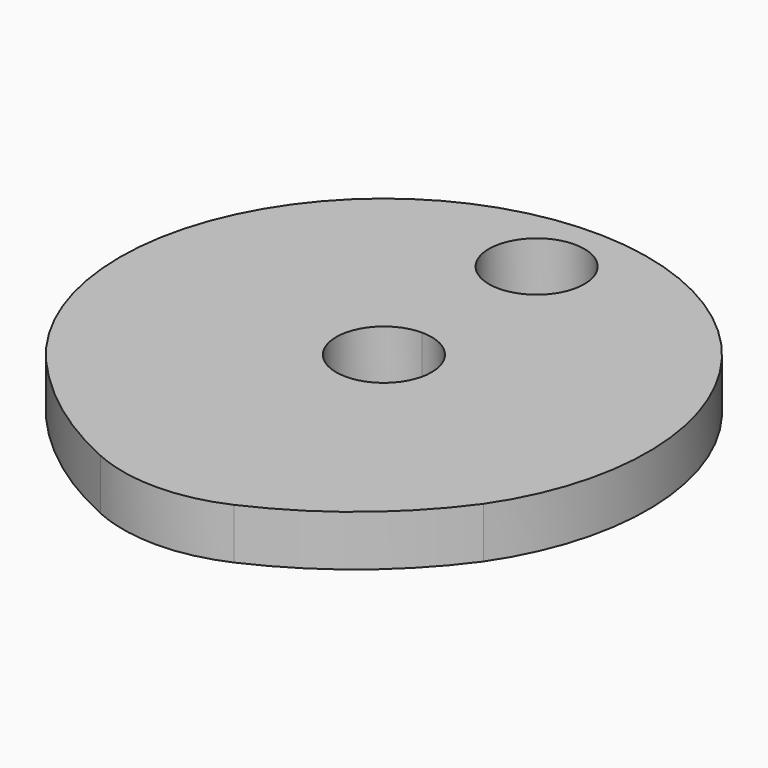
from build123d import *

# Parameters (mm, degrees)
F1_DEPTH = 6.35
F2_R     = 20.32


with BuildPart() as f1:
    # F0 (on Top) → F1 (new body)
    with BuildSketch(Plane.XY):
        with BuildLine():
            ThreePointArc((0, -36.83), (15.291644, -30.136686), (27.313114, -18.555706))
            ThreePointArc((27.313114, -18.555706), (-1.961985, 32.96166), (-24.919063, -21.664734))
            ThreePointArc((-24.919063, -21.664734), (-13.61836, -31.151515), (0, -36.83))
        make_face()
        with BuildLine():
            ThreePointArc((5.969, 0), (4.22072, -4.22072), (0, -5.969))
            ThreePointArc((0, -5.969), (-5.969, 0), (0, 5.969))
            ThreePointArc((0, 5.969), (4.22072, 4.22072), (5.969, 0))
        make_face(mode=Mode.SUBTRACT)
        with BuildLine():
            ThreePointArc((5.969, 23.876), (4.22072, 19.65528), (0, 17.907))
            ThreePointArc((0, 17.907), (-4.22072, 28.09672), (5.969, 23.876))
        make_face(mode=Mode.SUBTRACT)
    extrude(amount=F1_DEPTH)

    # F2
    f2_edges = [f1.edges().sort_by_distance(p)[0] for p in [
        (0, -36.83, 3.175),
    ]]
    fillet(f2_edges, radius=F2_R)


solid = f1.part
